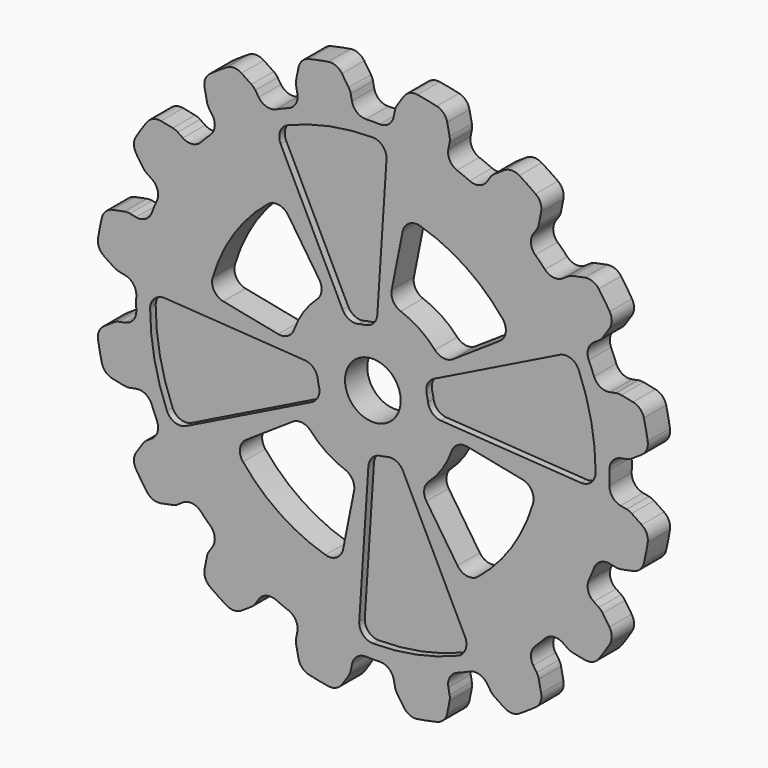
from build123d import *

# Parameters (mm, degrees)
F0_R     = 12.7
F1_DEPTH = 6.35
F3_DEPTH = 3.175
F4_ANGLE = 11.25


with BuildPart() as f1:
    # F0 (on Front) → F1 (new body, symmetric)
    with BuildSketch(Plane.XZ):
        with BuildLine():
            ThreePointArc((-54.862198, 99.262363), (-54.679532, 94.9014), (-57.355009, 91.45275))
            ThreePointArc((-57.355009, 91.45275), (-59.973806, 89.757145), (-62.542512, 87.986571))
            ThreePointArc((-62.542512, 87.986571), (-66.75251, 86.834495), (-70.711611, 88.672124))
            Line((-70.711611, 88.672124), (-72.703855, 90.664368))
            ThreePointArc((-72.703855, 90.664368), (-73.666112, 91.454072), (-74.763943, 92.040875))
            Line((-74.763943, 92.040875), (-79.820087, 94.135198))
            ThreePointArc((-79.820087, 94.135198), (-83.378901, 94.517432), (-86.579081, 92.914277))
            ThreePointArc((-86.579081, 92.914277), (-89.802561, 89.802562), (-92.914276, 86.579081))
            ThreePointArc((-92.914276, 86.579081), (-94.517432, 83.378901), (-94.135197, 79.820087))
            Line((-94.135197, 79.820087), (-92.040874, 74.763944))
            ThreePointArc((-92.040874, 74.763944), (-91.454071, 73.666112), (-90.664367, 72.703855))
            Line((-90.664367, 72.703855), (-88.672123, 70.711612))
            ThreePointArc((-88.672123, 70.711612), (-86.834494, 66.75251), (-87.986571, 62.542512))
            ThreePointArc((-87.986571, 62.542512), (-89.757144, 59.973807), (-91.45275, 57.355009))
            ThreePointArc((-91.45275, 57.355009), (-94.9014, 54.679533), (-99.262363, 54.862198))
            Line((-99.262363, 54.862198), (-101.865355, 55.940393))
            ThreePointArc((-101.865355, 55.940393), (-103.056571, 56.301744), (-104.295394, 56.423758))
            Line((-104.295394, 56.423758), (-109.768125, 56.423758))
            ThreePointArc((-109.768125, 56.423758), (-113.202315, 55.414997), (-115.545395, 52.709219))
            ThreePointArc((-115.545395, 52.709219), (-117.3327, 48.600796), (-118.973978, 44.431887))
            ThreePointArc((-118.973978, 44.431887), (-119.230445, 40.861805), (-117.515407, 37.720165))
            Line((-117.515407, 37.720165), (-113.645602, 33.85036))
            ThreePointArc((-113.645602, 33.85036), (-112.683345, 33.060656), (-111.585514, 32.473853))
            Line((-111.585514, 32.473853), (-108.982522, 31.395658))
            ThreePointArc((-108.982522, 31.395658), (-105.769692, 28.441156), (-105.222975, 24.110744))
            ThreePointArc((-105.222975, 24.110744), (-105.875771, 21.060001), (-106.440135, 17.991667))
            ThreePointArc((-106.440135, 17.991667), (-108.602412, 14.200108), (-112.70132, 12.7))
            Line((-112.70132, 12.7), (-115.518778, 12.7))
            ThreePointArc((-115.518778, 12.7), (-116.757601, 12.577987), (-117.948818, 12.216635))
            Line((-117.948818, 12.216635), (-123.004961, 10.122312))
            ThreePointArc((-123.004961, 10.122312), (-125.791703, 7.876131), (-126.92097, 4.47966))
            ThreePointArc((-126.92097, 4.47966), (-127, 0), (-126.92097, -4.479659))
            ThreePointArc((-126.92097, -4.479659), (-125.791703, -7.87613), (-123.004961, -10.122311))
            Line((-123.004961, -10.122311), (-117.948818, -12.216635))
            ThreePointArc((-117.948818, -12.216635), (-116.757601, -12.577986), (-115.518778, -12.7))
            Line((-115.518778, -12.7), (-112.70132, -12.7))
            ThreePointArc((-112.70132, -12.7), (-108.602413, -14.200107), (-106.440135, -17.991666))
            ThreePointArc((-106.440135, -17.991666), (-105.875771, -21.06), (-105.222975, -24.110743))
            ThreePointArc((-105.222975, -24.110743), (-105.769692, -28.441155), (-108.982522, -31.395657))
            Line((-108.982522, -31.395657), (-111.585514, -32.473852))
            ThreePointArc((-111.585514, -32.473852), (-112.683345, -33.060655), (-113.645602, -33.850359))
            Line((-113.645602, -33.850359), (-117.515407, -37.720164))
            ThreePointArc((-117.515407, -37.720164), (-119.230445, -40.861804), (-118.973978, -44.431886))
            ThreePointArc((-118.973978, -44.431886), (-117.332701, -48.600796), (-115.545395, -52.709218))
            ThreePointArc((-115.545395, -52.709218), (-113.202316, -55.414996), (-109.768125, -56.423757))
            Line((-109.768125, -56.423757), (-104.295395, -56.423757))
            ThreePointArc((-104.295395, -56.423757), (-103.056571, -56.301744), (-101.865355, -55.940392))
            Line((-101.865355, -55.940392), (-99.262363, -54.862198))
            ThreePointArc((-99.262363, -54.862198), (-94.9014, -54.679532), (-91.45275, -57.355009))
            ThreePointArc((-91.45275, -57.355009), (-89.757145, -59.973806), (-87.986571, -62.542512))
            ThreePointArc((-87.986571, -62.542512), (-86.834495, -66.75251), (-88.672124, -70.711611))
            Line((-88.672124, -70.711611), (-90.664367, -72.703855))
            ThreePointArc((-90.664367, -72.703855), (-91.454071, -73.666112), (-92.040874, -74.763943))
            Line((-92.040874, -74.763943), (-94.135198, -79.820087))
            ThreePointArc((-94.135198, -79.820087), (-94.517432, -83.378901), (-92.914277, -86.579081))
            ThreePointArc((-92.914277, -86.579081), (-89.802561, -89.802561), (-86.579081, -92.914276))
            ThreePointArc((-86.579081, -92.914276), (-83.378901, -94.517432), (-79.820087, -94.135197))
            Line((-79.820087, -94.135197), (-74.763944, -92.040874))
            ThreePointArc((-74.763944, -92.040874), (-73.666112, -91.454071), (-72.703855, -90.664367))
            Line((-72.703855, -90.664367), (-70.711612, -88.672123))
            ThreePointArc((-70.711612, -88.672123), (-66.75251, -86.834494), (-62.542512, -87.986571))
            ThreePointArc((-62.542512, -87.986571), (-59.973807, -89.757144), (-57.355009, -91.45275))
            ThreePointArc((-57.355009, -91.45275), (-54.679533, -94.9014), (-54.862198, -99.262363))
            Line((-54.862198, -99.262363), (-55.940393, -101.865355))
            ThreePointArc((-55.940393, -101.865355), (-56.301744, -103.056571), (-56.423758, -104.295394))
            Line((-56.423758, -104.295394), (-56.423758, -109.768125))
            ThreePointArc((-56.423758, -109.768125), (-55.414997, -113.202315), (-52.709219, -115.545395))
            ThreePointArc((-52.709219, -115.545395), (-48.600796, -117.3327), (-44.431887, -118.973978))
            ThreePointArc((-44.431887, -118.973978), (-40.861805, -119.230445), (-37.720165, -117.515407))
            Line((-37.720165, -117.515407), (-33.85036, -113.645602))
            ThreePointArc((-33.85036, -113.645602), (-33.060656, -112.683345), (-32.473853, -111.585514))
            Line((-32.473853, -111.585514), (-31.395658, -108.982522))
            ThreePointArc((-31.395658, -108.982522), (-28.441156, -105.769692), (-24.110744, -105.222975))
            ThreePointArc((-24.110744, -105.222975), (-21.060001, -105.875771), (-17.991667, -106.440135))
            ThreePointArc((-17.991667, -106.440135), (-14.200108, -108.602412), (-12.7, -112.70132))
            Line((-12.7, -112.70132), (-12.7, -115.518778))
            ThreePointArc((-12.7, -115.518778), (-12.577987, -116.757601), (-12.216635, -117.948818))
            Line((-12.216635, -117.948818), (-10.122312, -123.004961))
            ThreePointArc((-10.122312, -123.004961), (-7.876131, -125.791703), (-4.47966, -126.92097))
            ThreePointArc((-4.47966, -126.92097), (0, -127), (4.479659, -126.92097))
            ThreePointArc((4.479659, -126.92097), (7.87613, -125.791703), (10.122311, -123.004961))
            Line((10.122311, -123.004961), (12.216635, -117.948818))
            ThreePointArc((12.216635, -117.948818), (12.577986, -116.757601), (12.7, -115.518778))
            Line((12.7, -115.518778), (12.7, -112.70132))
            ThreePointArc((12.7, -112.70132), (14.200107, -108.602413), (17.991666, -106.440135))
            ThreePointArc((17.991666, -106.440135), (21.06, -105.875771), (24.110744, -105.222975))
            ThreePointArc((24.110744, -105.222975), (28.441155, -105.769692), (31.395658, -108.982522))
            Line((31.395658, -108.982522), (32.473852, -111.585514))
            ThreePointArc((32.473852, -111.585514), (33.060655, -112.683345), (33.850359, -113.645602))
            Line((33.850359, -113.645602), (37.720164, -117.515407))
            ThreePointArc((37.720164, -117.515407), (40.861805, -119.230445), (44.431886, -118.973978))
            ThreePointArc((44.431886, -118.973978), (48.600796, -117.332701), (52.709218, -115.545395))
            ThreePointArc((52.709218, -115.545395), (55.414997, -113.202315), (56.423757, -109.768125))
            Line((56.423757, -109.768125), (56.423757, -104.295395))
            ThreePointArc((56.423757, -104.295395), (56.301744, -103.056571), (55.940392, -101.865355))
            Line((55.940392, -101.865355), (54.862198, -99.262363))
            ThreePointArc((54.862198, -99.262363), (54.679532, -94.9014), (57.355009, -91.45275))
            ThreePointArc((57.355009, -91.45275), (59.973806, -89.757145), (62.542512, -87.986571))
            ThreePointArc((62.542512, -87.986571), (66.75251, -86.834495), (70.711611, -88.672124))
            Line((70.711611, -88.672124), (72.703855, -90.664367))
            ThreePointArc((72.703855, -90.664367), (73.666112, -91.454071), (74.763943, -92.040874))
            Line((74.763943, -92.040874), (79.820087, -94.135198))
            ThreePointArc((79.820087, -94.135198), (83.378901, -94.517432), (86.579081, -92.914277))
            ThreePointArc((86.579081, -92.914277), (89.802561, -89.802561), (92.914276, -86.579081))
            ThreePointArc((92.914276, -86.579081), (94.517432, -83.378901), (94.135197, -79.820087))
            Line((94.135197, -79.820087), (92.040874, -74.763943))
            ThreePointArc((92.040874, -74.763943), (91.454071, -73.666112), (90.664367, -72.703855))
            Line((90.664367, -72.703855), (88.672124, -70.711612))
            ThreePointArc((88.672124, -70.711612), (86.834494, -66.75251), (87.986571, -62.542512))
            ThreePointArc((87.986571, -62.542512), (89.757145, -59.973807), (91.45275, -57.355009))
            ThreePointArc((91.45275, -57.355009), (94.9014, -54.679533), (99.262363, -54.862198))
            Line((99.262363, -54.862198), (101.865355, -55.940393))
            ThreePointArc((101.865355, -55.940393), (103.056571, -56.301744), (104.295395, -56.423758))
            Line((104.295395, -56.423758), (109.768125, -56.423758))
            ThreePointArc((109.768125, -56.423758), (113.202315, -55.414997), (115.545395, -52.709219))
            ThreePointArc((115.545395, -52.709219), (117.332701, -48.600796), (118.973978, -44.431887))
            ThreePointArc((118.973978, -44.431887), (119.230445, -40.861805), (117.515407, -37.720164))
            Line((117.515407, -37.720164), (113.645602, -33.850359))
            ThreePointArc((113.645602, -33.850359), (112.683345, -33.060655), (111.585514, -32.473852))
            Line((111.585514, -32.473852), (108.982522, -31.395658))
            ThreePointArc((108.982522, -31.395658), (105.769692, -28.441156), (105.222975, -24.110744))
            ThreePointArc((105.222975, -24.110744), (105.875771, -21.06), (106.440135, -17.991667))
            ThreePointArc((106.440135, -17.991667), (108.602412, -14.200108), (112.70132, -12.7))
            Line((112.70132, -12.7), (115.518778, -12.7))
            ThreePointArc((115.518778, -12.7), (116.757601, -12.577987), (117.948818, -12.216635))
            Line((117.948818, -12.216635), (123.004961, -10.122312))
            ThreePointArc((123.004961, -10.122312), (125.791703, -7.876131), (126.92097, -4.47966))
            ThreePointArc((126.92097, -4.47966), (127, 0), (126.92097, 4.479659))
            ThreePointArc((126.92097, 4.479659), (125.791703, 7.876131), (123.004961, 10.122312))
            Line((123.004961, 10.122312), (117.948818, 12.216635))
            ThreePointArc((117.948818, 12.216635), (116.757601, 12.577986), (115.518778, 12.7))
            Line((115.518778, 12.7), (112.70132, 12.7))
            ThreePointArc((112.70132, 12.7), (108.602413, 14.200107), (106.440135, 17.991667))
            ThreePointArc((106.440135, 17.991667), (105.875771, 21.06), (105.222975, 24.110744))
            ThreePointArc((105.222975, 24.110744), (105.769692, 28.441155), (108.982522, 31.395658))
            Line((108.982522, 31.395658), (111.585514, 32.473852))
            ThreePointArc((111.585514, 32.473852), (112.683345, 33.060655), (113.645602, 33.850359))
            Line((113.645602, 33.850359), (117.515407, 37.720164))
            ThreePointArc((117.515407, 37.720164), (119.230445, 40.861805), (118.973978, 44.431887))
            ThreePointArc((118.973978, 44.431887), (117.332701, 48.600796), (115.545395, 52.709218))
            ThreePointArc((115.545395, 52.709218), (113.202315, 55.414997), (109.768125, 56.423757))
            Line((109.768125, 56.423757), (104.295395, 56.423757))
            ThreePointArc((104.295395, 56.423757), (103.056571, 56.301744), (101.865355, 55.940392))
            Line((101.865355, 55.940392), (99.262363, 54.862198))
            ThreePointArc((99.262363, 54.862198), (94.9014, 54.679532), (91.45275, 57.355009))
            ThreePointArc((91.45275, 57.355009), (89.757145, 59.973807), (87.986571, 62.542512))
            ThreePointArc((87.986571, 62.542512), (86.834495, 66.75251), (88.672124, 70.711611))
            Line((88.672124, 70.711611), (90.664367, 72.703855))
            ThreePointArc((90.664367, 72.703855), (91.454071, 73.666112), (92.040874, 74.763943))
            Line((92.040874, 74.763943), (94.135198, 79.820087))
            ThreePointArc((94.135198, 79.820087), (94.517432, 83.378901), (92.914276, 86.579081))
            ThreePointArc((92.914276, 86.579081), (89.802561, 89.802561), (86.579081, 92.914276))
            ThreePointArc((86.579081, 92.914276), (83.378901, 94.517432), (79.820087, 94.135198))
            Line((79.820087, 94.135198), (74.763943, 92.040874))
            ThreePointArc((74.763943, 92.040874), (73.666112, 91.454071), (72.703855, 90.664367))
            Line((72.703855, 90.664367), (70.711611, 88.672124))
            ThreePointArc((70.711611, 88.672124), (66.75251, 86.834495), (62.542512, 87.986571))
            ThreePointArc((62.542512, 87.986571), (59.973807, 89.757145), (57.355009, 91.45275))
            ThreePointArc((57.355009, 91.45275), (54.679533, 94.9014), (54.862198, 99.262363))
            Line((54.862198, 99.262363), (55.940392, 101.865355))
            ThreePointArc((55.940392, 101.865355), (56.301744, 103.056571), (56.423757, 104.295395))
            Line((56.423757, 104.295395), (56.423757, 109.768125))
            ThreePointArc((56.423757, 109.768125), (55.414997, 113.202315), (52.709218, 115.545395))
            ThreePointArc((52.709218, 115.545395), (48.600796, 117.332701), (44.431887, 118.973978))
            ThreePointArc((44.431887, 118.973978), (40.861805, 119.230445), (37.720164, 117.515407))
            Line((37.720164, 117.515407), (33.850359, 113.645602))
            ThreePointArc((33.850359, 113.645602), (33.060655, 112.683345), (32.473852, 111.585514))
            Line((32.473852, 111.585514), (31.395658, 108.982522))
            ThreePointArc((31.395658, 108.982522), (28.441155, 105.769692), (24.110744, 105.222975))
            ThreePointArc((24.110744, 105.222975), (21.06, 105.875771), (17.991667, 106.440135))
            ThreePointArc((17.991667, 106.440135), (14.200107, 108.602412), (12.7, 112.70132))
            Line((12.7, 112.70132), (12.7, 115.518778))
            ThreePointArc((12.7, 115.518778), (12.577987, 116.757601), (12.216635, 117.948818))
            Line((12.216635, 117.948818), (10.122312, 123.004961))
            ThreePointArc((10.122312, 123.004961), (7.876131, 125.791703), (4.47966, 126.92097))
            ThreePointArc((4.47966, 126.92097), (0, 127), (-4.47966, 126.92097))
            ThreePointArc((-4.47966, 126.92097), (-7.876131, 125.791703), (-10.122312, 123.004961))
            Line((-10.122312, 123.004961), (-12.216635, 117.948818))
            ThreePointArc((-12.216635, 117.948818), (-12.577987, 116.757601), (-12.7, 115.518778))
            Line((-12.7, 115.518778), (-12.7, 112.70132))
            ThreePointArc((-12.7, 112.70132), (-14.200107, 108.602412), (-17.991667, 106.440135))
            ThreePointArc((-17.991667, 106.440135), (-21.06, 105.875771), (-24.110743, 105.222975))
            ThreePointArc((-24.110743, 105.222975), (-28.441155, 105.769692), (-31.395657, 108.982522))
            Line((-31.395657, 108.982522), (-32.473852, 111.585514))
            ThreePointArc((-32.473852, 111.585514), (-33.060655, 112.683345), (-33.850359, 113.645602))
            Line((-33.850359, 113.645602), (-37.720164, 117.515407))
            ThreePointArc((-37.720164, 117.515407), (-40.861804, 119.230445), (-44.431886, 118.973978))
            ThreePointArc((-44.431886, 118.973978), (-48.600795, 117.332701), (-52.709218, 115.545395))
            ThreePointArc((-52.709218, 115.545395), (-55.414996, 113.202316), (-56.423757, 109.768125))
            Line((-56.423757, 109.768125), (-56.423757, 104.295395))
            ThreePointArc((-56.423757, 104.295395), (-56.301743, 103.056571), (-55.940392, 101.865355))
            Line((-55.940392, 101.865355), (-54.862198, 99.262363))
        make_face()
        with BuildLine():
            ThreePointArc((-35.439695, -67.457157), (-53.881537, -53.881537), (-67.457157, -35.439695))
            ThreePointArc((-67.457157, -35.439695), (-67.806857, -30.325806), (-64.265767, -26.619752))
            Line((-64.265767, -26.619752), (-40.64524, -16.83581))
            ThreePointArc((-40.64524, -16.83581), (-36.211523, -16.676851), (-32.755886, -19.459238))
            ThreePointArc((-32.755886, -19.459238), (-26.940768, -26.940768), (-19.459238, -32.755886))
            ThreePointArc((-19.459238, -32.755886), (-16.676851, -36.211523), (-16.83581, -40.64524))
            Line((-16.83581, -40.64524), (-26.619752, -64.265767))
            ThreePointArc((-26.619752, -64.265767), (-30.325806, -67.806857), (-35.439695, -67.457157))
        make_face(mode=Mode.SUBTRACT)
        with BuildLine():
            ThreePointArc((32.755886, -19.459238), (36.211523, -16.676851), (40.64524, -16.83581))
            Line((40.64524, -16.83581), (64.265767, -26.619752))
            ThreePointArc((64.265767, -26.619752), (67.806857, -30.325806), (67.457157, -35.439695))
            ThreePointArc((67.457157, -35.439695), (53.881537, -53.881537), (35.439695, -67.457157))
            ThreePointArc((35.439695, -67.457157), (30.325806, -67.806857), (26.619752, -64.265767))
            Line((26.619752, -64.265767), (16.83581, -40.64524))
            ThreePointArc((16.83581, -40.64524), (16.676851, -36.211523), (19.459238, -32.755886))
            ThreePointArc((19.459238, -32.755886), (26.940768, -26.940768), (32.755886, -19.459238))
        make_face(mode=Mode.SUBTRACT)
        with BuildLine():
            Line((-26.619752, 64.265767), (-16.83581, 40.64524))
            ThreePointArc((-16.83581, 40.64524), (-16.676851, 36.211523), (-19.459238, 32.755886))
            ThreePointArc((-19.459238, 32.755886), (-26.940768, 26.940768), (-32.755886, 19.459238))
            ThreePointArc((-32.755886, 19.459238), (-36.211523, 16.676851), (-40.64524, 16.83581))
            Line((-40.64524, 16.83581), (-64.265767, 26.619752))
            ThreePointArc((-64.265767, 26.619752), (-67.806857, 30.325806), (-67.457157, 35.439695))
            ThreePointArc((-67.457157, 35.439695), (-53.881537, 53.881537), (-35.439695, 67.457157))
            ThreePointArc((-35.439695, 67.457157), (-30.325806, 67.806857), (-26.619752, 64.265767))
        make_face(mode=Mode.SUBTRACT)
        Circle(F0_R, mode=Mode.SUBTRACT)
        with BuildLine():
            ThreePointArc((19.459238, 32.755886), (16.676851, 36.211523), (16.83581, 40.64524))
            Line((16.83581, 40.64524), (26.619752, 64.265767))
            ThreePointArc((26.619752, 64.265767), (30.325806, 67.806857), (35.439695, 67.457157))
            ThreePointArc((35.439695, 67.457157), (53.881537, 53.881537), (67.457157, 35.439695))
            ThreePointArc((67.457157, 35.439695), (67.806857, 30.325806), (64.265767, 26.619752))
            Line((64.265767, 26.619752), (40.64524, 16.83581))
            ThreePointArc((40.64524, 16.83581), (36.211523, 16.676851), (32.755886, 19.459238))
            ThreePointArc((32.755886, 19.459238), (26.940768, 26.940768), (19.459238, 32.755886))
        make_face(mode=Mode.SUBTRACT)
    extrude(amount=F1_DEPTH, both=True)

    # F2 (on face) → F3 (cut)
    with BuildSketch(Plane.XZ.offset(6.35)):
        with BuildLine():
            ThreePointArc((24.59767, 91.799753), (23.85435, 96.799898), (19.694977, 99.672804))
            ThreePointArc((19.694977, 99.672804), (0, 101.6), (-19.694977, 99.672804))
            ThreePointArc((-19.694977, 99.672804), (-23.85435, 96.799898), (-24.59767, 91.799753))
            Line((-24.59767, 91.799753), (-8.051477, 30.048523))
            ThreePointArc((-8.051477, 30.048523), (-5.629496, 26.539726), (-1.534279, 25.353619))
            ThreePointArc((-1.534279, 25.353619), (0, 25.4), (1.534279, 25.353619))
            ThreePointArc((1.534279, 25.353619), (5.629496, 26.539726), (8.051477, 30.048523))
            Line((8.051477, 30.048523), (24.59767, 91.799753))
        make_face()
        with BuildLine():
            ThreePointArc((-1.534279, -25.353619), (-5.629496, -26.539726), (-8.051477, -30.048523))
            Line((-8.051477, -30.048523), (-24.59767, -91.799753))
            ThreePointArc((-24.59767, -91.799753), (-23.85435, -96.799898), (-19.694977, -99.672804))
            ThreePointArc((-19.694977, -99.672804), (0, -101.6), (19.694977, -99.672804))
            ThreePointArc((19.694977, -99.672804), (23.85435, -96.799898), (24.59767, -91.799753))
            Line((24.59767, -91.799753), (8.051477, -30.048523))
            ThreePointArc((8.051477, -30.048523), (5.629496, -26.539726), (1.534279, -25.353619))
            ThreePointArc((1.534279, -25.353619), (0, -25.4), (-1.534279, -25.353619))
        make_face()
        with BuildLine():
            Line((91.799753, 24.59767), (30.048523, 8.051477))
            ThreePointArc((30.048523, 8.051477), (26.539726, 5.629496), (25.353619, 1.534279))
            ThreePointArc((25.353619, 1.534279), (25.4, 0), (25.353619, -1.534279))
            ThreePointArc((25.353619, -1.534279), (26.539726, -5.629496), (30.048523, -8.051477))
            Line((30.048523, -8.051477), (91.799753, -24.59767))
            ThreePointArc((91.799753, -24.59767), (96.799898, -23.85435), (99.672804, -19.694977))
            ThreePointArc((99.672804, -19.694977), (101.6, 0), (99.672804, 19.694977))
            ThreePointArc((99.672804, 19.694977), (96.799898, 23.85435), (91.799753, 24.59767))
        make_face()
        with BuildLine():
            Line((-91.799753, -24.59767), (-30.048523, -8.051477))
            ThreePointArc((-30.048523, -8.051477), (-26.539726, -5.629496), (-25.353619, -1.534279))
            ThreePointArc((-25.353619, -1.534279), (-25.4, 0), (-25.353619, 1.534279))
            ThreePointArc((-25.353619, 1.534279), (-26.539726, 5.629496), (-30.048523, 8.051477))
            Line((-30.048523, 8.051477), (-91.799753, 24.59767))
            ThreePointArc((-91.799753, 24.59767), (-96.799898, 23.85435), (-99.672804, 19.694977))
            ThreePointArc((-99.672804, 19.694977), (-101.6, 0), (-99.672804, -19.694977))
            ThreePointArc((-99.672804, -19.694977), (-96.799898, -23.85435), (-91.799753, -24.59767))
        make_face()
    extrude(amount=-F3_DEPTH, mode=Mode.SUBTRACT)


with BuildPart() as f1_1:
    # F4: moved
    add(f1.part.rotate(Axis((0, -6.35, 0), (0, -1, 0)), F4_ANGLE))


solid = f1_1.part
